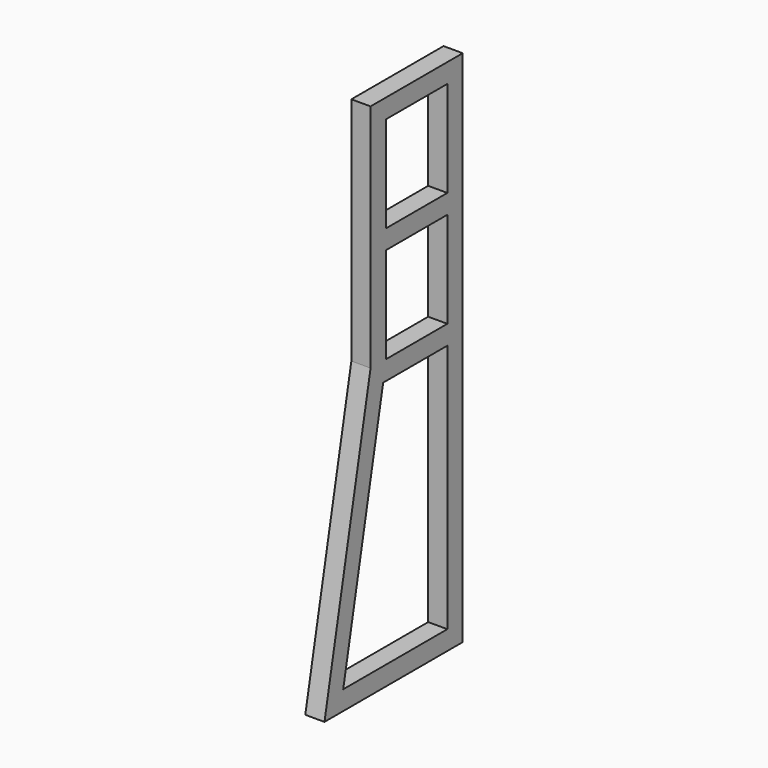
from build123d import *

# Parameters (mm, degrees)
F0_W     = 200
F0_H     = 250
F1_DEPTH = 50


with BuildPart() as f1:
    # F0 (on Right) → F1 (new body)
    with BuildSketch(Plane.YZ):
        Polygon((-338.446645, 0), (0, 0), (0, 1000), (0, 1350), (-300, 1350), (-300, 1050), (-300, 750), (-450, 0), align=None)
        Polygon((-50, 50), (-389.009805, 50), (-259.009805, 700), (-50, 700), align=None, mode=Mode.SUBTRACT)
        with Locations((-150, 875)):
            Rectangle(F0_W, F0_H, mode=Mode.SUBTRACT)
        with Locations((-150, 1175)):
            Rectangle(F0_W, F0_H, mode=Mode.SUBTRACT)
    extrude(amount=F1_DEPTH)


solid = f1.part
